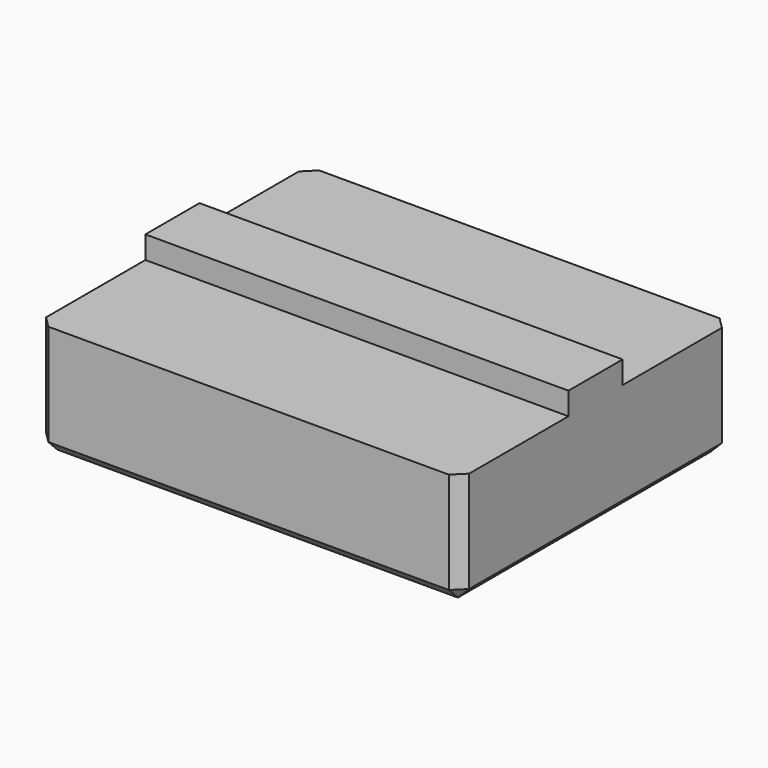
from build123d import *

# Parameters (mm, degrees)
BOX008_W        = 37.5
BOX008_H        = 6
BOX008_DEPTH    = 12
BOX009_W        = 37.5
BOX009_H        = 30
BOX009_DEPTH    = 10
CHAMFER004_SIZE = 1


with BuildPart() as cube008:
    # Box008 → Box008 (new body)
    with BuildSketch(Plane(origin=(0, 12, 0), x_dir=(1, 0, 0), z_dir=(0, 0, 1))):
        with Locations((18.75, 3)):
            Rectangle(BOX008_W, BOX008_H)
    extrude(amount=BOX008_DEPTH)


with BuildPart() as f_375_spacer:
    # Box009 → Box009 (new body)
    with BuildSketch(Plane.XY):
        with Locations((18.75, 15)):
            Rectangle(BOX009_W, BOX009_H)
    extrude(amount=BOX009_DEPTH)

    # Fusion002003: union Cube008
    add(cube008.part)

    # Chamfer004
    chamfer004_edges = [f_375_spacer.edges().sort_by_distance(p)[0] for p in [
        (0, 6, 0),
        (0, 0, 5),
        (0, 15, 0),
        (37.5, 6, 0),
        (18.75, 0, 0),
        (37.5, 0, 5),
        (0, 30, 5),
        (0, 24, 0),
        (37.5, 15, 0),
        (18.75, 30, 0),
        (37.5, 30, 5),
        (37.5, 24, 0),
    ]]
    chamfer(chamfer004_edges, length=CHAMFER004_SIZE)


solid = f_375_spacer.part
